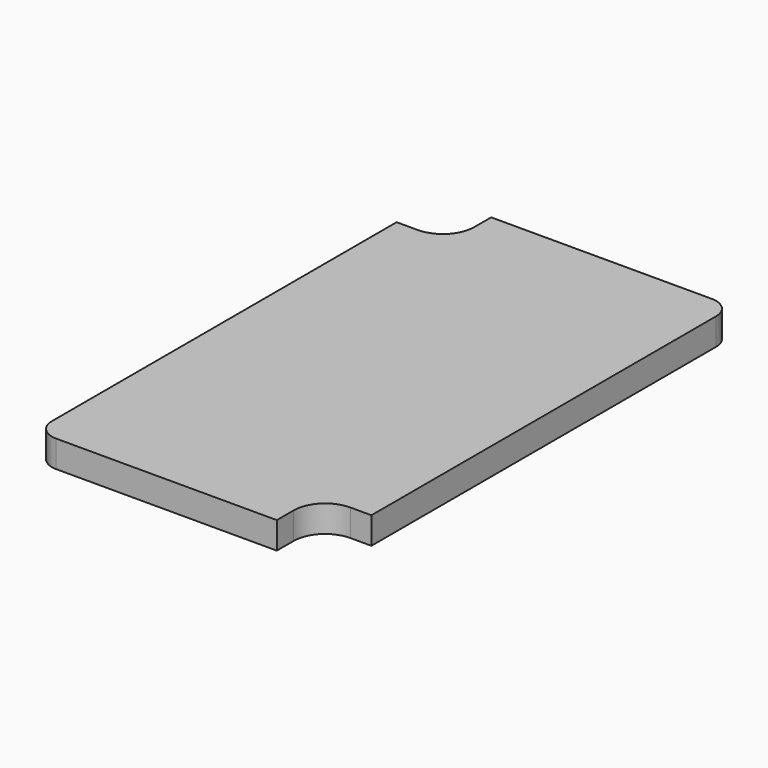
from build123d import *

# Parameters (mm, degrees)
F1_DEPTH = 1.6256


with BuildPart() as f1:
    # F0 (on Top) → F1 (new body)
    with BuildSketch(Plane.XY):
        with BuildLine():
            ThreePointArc((8.89, 13.97), (8.518026, 14.868026), (7.62, 15.24))
            Line((7.62, 15.24), (-5.715, 15.24))
            Line((-5.715, 15.24), (-5.715, 13.97))
            ThreePointArc((-5.715, 13.97), (-6.272962, 12.622962), (-7.62, 12.065))
            Line((-7.62, 12.065), (-8.89, 12.065))
            Line((-8.89, 12.065), (-8.89, -13.97))
            ThreePointArc((-8.89, -13.97), (-8.518026, -14.868026), (-7.62, -15.24))
            Line((-7.62, -15.24), (5.715, -15.24))
            Line((5.715, -15.24), (5.715, -13.97))
            ThreePointArc((5.715, -13.97), (6.272962, -12.622962), (7.62, -12.065))
            Line((7.62, -12.065), (8.89, -12.065))
            Line((8.89, -12.065), (8.89, 13.97))
        make_face()
    extrude(amount=F1_DEPTH)


solid = f1.part
